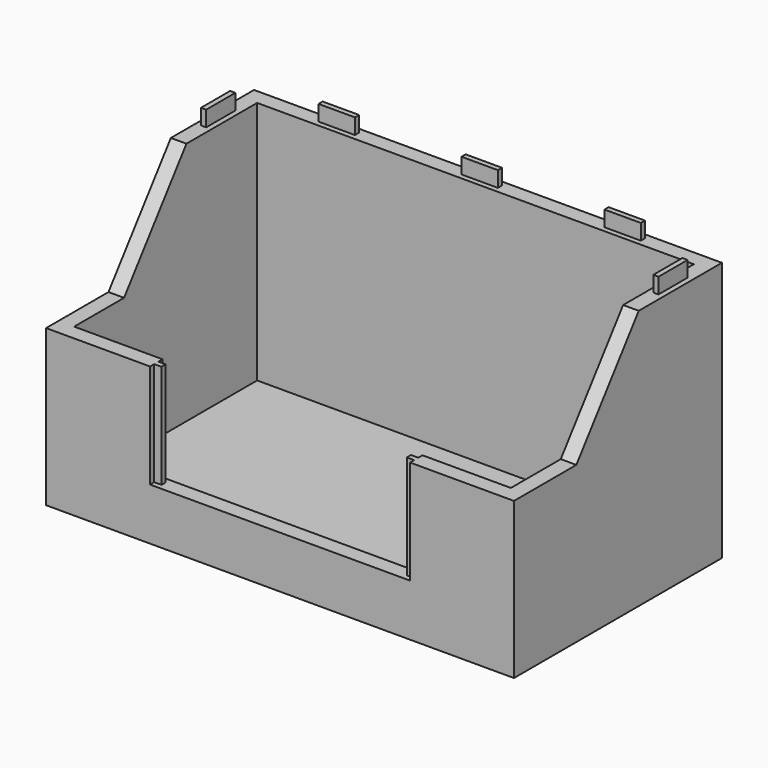
from build123d import *

# Parameters (mm, degrees)
F0_W      = 90
F0_H      = 50
F1_DEPTH  = 50
F2_T      = -3
F4_DEPTH  = 90.001
F6_DEPTH  = 20
F7_W      = 7
F7_H      = 1
F7_W_2    = 1
F7_H_2    = 7
F8_DEPTH  = 3
F9_W      = 7.2
F9_H      = 1.2
F9_W_2    = 1.2
F9_H_2    = 7.2
F10_DEPTH = 3.5


with BuildPart() as f1:
    # F0 (on Top) → F1 (new body)
    with BuildSketch(Plane.XY):
        Rectangle(F0_W, F0_H)
    extrude(amount=F1_DEPTH)

    # F2
    f2_openings = [f1.faces().sort_by_distance(p)[0] for p in [
        (0, 0, 50),
    ]]
    offset(amount=F2_T, openings=f2_openings)

    # F3 (on face) → F4 (cut, through all)
    with BuildSketch(Plane(origin=(-45, 0, 0), x_dir=(0, -1, 0), z_dir=(-1, 0, 0))):
        Polygon((25, 30), (25, 50), (-5, 50), (10, 30), align=None)
    extrude(amount=-F4_DEPTH, mode=Mode.SUBTRACT)

    # F5 (on face) → F6 (cut)
    with BuildSketch(Plane.XY.offset(30)):
        Polygon((25, -22), (-25, -22), (-25, -23), (-23.6, -23), (-23.6, -24), (-25, -24), (-25, -25), (25, -25), (25, -24), (23.6, -24), (23.6, -23), (25, -23), align=None)
    extrude(amount=-F6_DEPTH, mode=Mode.SUBTRACT)

    # F7 (on face) → F8 (join)
    with BuildSketch(Plane.XY.offset(50)):
        with Locations((-27.5, 23.5)):
            Rectangle(F7_W, F7_H)
        with Locations((-43.5, 14.5)):
            Rectangle(F7_W_2, F7_H_2)
        with Locations((27.5, 23.5)):
            Rectangle(F7_W, F7_H)
        with Locations((43.5, 14.5)):
            Rectangle(F7_W_2, F7_H_2)
        with Locations((0, 23.5)):
            Rectangle(F7_W, F7_H)
    extrude(amount=F8_DEPTH)

    # F9 (on face) → F10 (cut)
    with BuildSketch(Plane(origin=(0, 0, 0), x_dir=(1, 0, 0), z_dir=(0, 0, -1))):
        with Locations((0, -23.5)):
            Rectangle(F9_W, F9_H)
        with Locations((27.5, -23.5)):
            Rectangle(F9_W, F9_H)
        with Locations((-27.5, -23.5)):
            Rectangle(F9_W, F9_H)
        with Locations((43.5, -14.5)):
            Rectangle(F9_W_2, F9_H_2)
        with Locations((-43.5, -14.5)):
            Rectangle(F9_W_2, F9_H_2)
    extrude(amount=-F10_DEPTH, mode=Mode.SUBTRACT)


solid = f1.part
